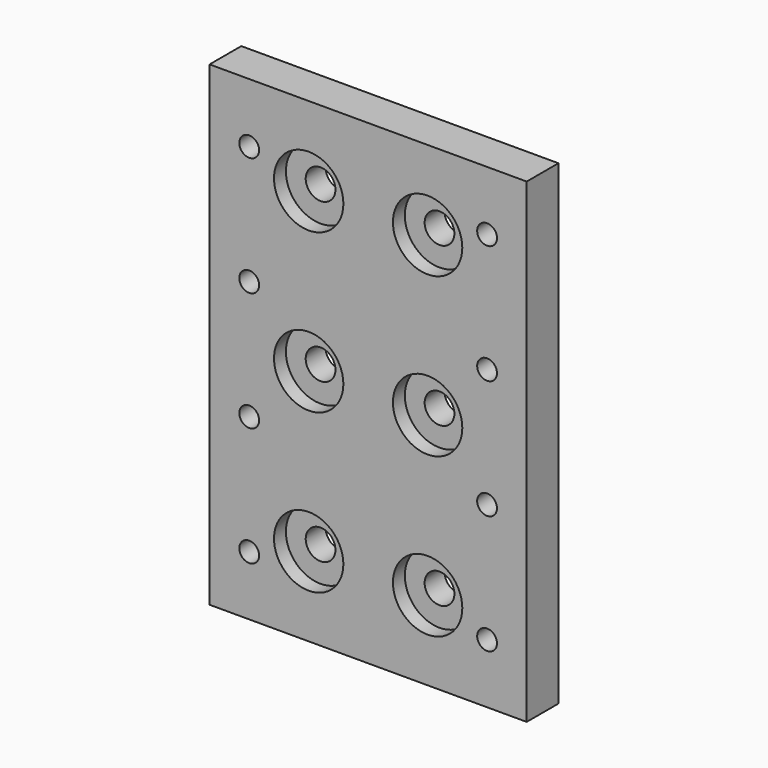
from build123d import *

# Parameters (mm, degrees)
F0_W     = 101.6
F0_H     = 152.4
F1_DEPTH = 12.7
F2_R     = 3.175
F3_DEPTH = 12.701
F4_R     = 7.9375
F5_DEPTH = 5
F6_R     = 4.7625
F7_DEPTH = 12.701
F8_R     = 11.1125
F9_DEPTH = 4.7625


with BuildPart() as f1:
    # F0 (on Front) → F1 (new body)
    with BuildSketch(Plane.XZ):
        Rectangle(F0_W, F0_H)
    extrude(amount=F1_DEPTH)

    # F2 (on face) → F3 (cut, through all)
    with BuildSketch(Plane.XZ.offset(12.7)):
        with Locations((-38.1, 57.15)):
            Circle(F2_R)
        with Locations((-38.1, 19.05)):
            Circle(F2_R)
        with Locations((-38.1, -19.05)):
            Circle(F2_R)
        with Locations((-38.1, -57.15)):
            Circle(F2_R)
        with Locations((38.1, 57.15)):
            Circle(F2_R)
        with Locations((38.1, 19.05)):
            Circle(F2_R)
        with Locations((38.1, -19.05)):
            Circle(F2_R)
        with Locations((38.1, -57.15)):
            Circle(F2_R)
    extrude(amount=-F3_DEPTH, mode=Mode.SUBTRACT)

    # F4 (on face) → F5 (cut)
    with BuildSketch(Plane(origin=(0, 0, 0), x_dir=(-1, 0, 0), z_dir=(0, 1, 0))):
        with Locations((-38.1, 57.15)):
            Circle(F4_R)
        with Locations((-38.1, 19.05)):
            Circle(F4_R)
        with Locations((-38.1, -19.05)):
            Circle(F4_R)
        with Locations((-38.1, -57.15)):
            Circle(F4_R)
        with Locations((38.1, 57.15)):
            Circle(F4_R)
        with Locations((38.1, 19.05)):
            Circle(F4_R)
        with Locations((38.1, -19.05)):
            Circle(F4_R)
        with Locations((38.1, -57.15)):
            Circle(F4_R)
    extrude(amount=-F5_DEPTH, mode=Mode.SUBTRACT)

    # F6 (on face) → F7 (cut, through all)
    with BuildSketch(Plane.XZ.offset(12.7)):
        with Locations((-19.05, 50.8)):
            Circle(F6_R)
        with Locations((-19.05, 0)):
            Circle(F6_R)
        with Locations((-19.05, -50.8)):
            Circle(F6_R)
        with Locations((19.05, 50.8)):
            Circle(F6_R)
        with Locations((19.05, 0)):
            Circle(F6_R)
        with Locations((19.05, -50.8)):
            Circle(F6_R)
    extrude(amount=-F7_DEPTH, mode=Mode.SUBTRACT)

    # F8 (on face) → F9 (cut)
    with BuildSketch(Plane.XZ.offset(12.7)):
        with Locations((-19.05, 50.8)):
            Circle(F8_R)
        with Locations((-19.05, 0)):
            Circle(F8_R)
        with Locations((-19.05, -50.8)):
            Circle(F8_R)
        with Locations((19.05, 50.8)):
            Circle(F8_R)
        with Locations((19.05, 0)):
            Circle(F8_R)
        with Locations((19.05, -50.8)):
            Circle(F8_R)
    extrude(amount=-F9_DEPTH, mode=Mode.SUBTRACT)


solid = f1.part
